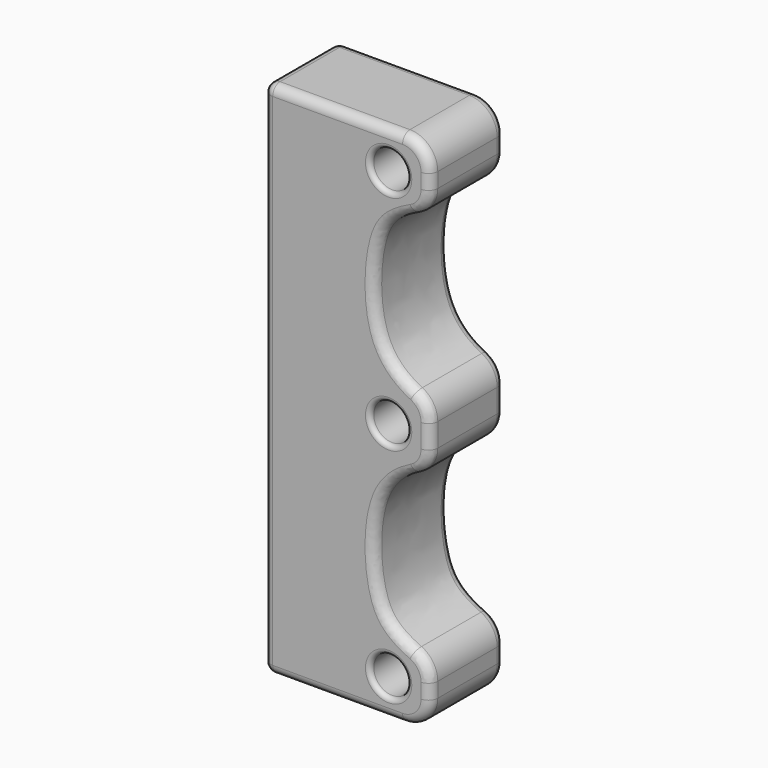
from build123d import *

# Parameters (mm, degrees)
F0_W      = 18
F0_H      = 56
F1_DEPTH  = 10
F2_R      = 2
F3_DEPTH  = 25
F4_R      = 3
F6_DEPTH  = 25
F7_R      = 3
F8_R      = 1
F9_W      = 6.2
F9_H      = 16.2
F10_DEPTH = 2.5
F11_R     = 1
F12_R     = 0.5
F13_W     = 4.2
F13_H     = 14.2
F14_DEPTH = 2.5


with BuildPart() as f1:
    # F0 (on Front) → F1 (new body)
    with BuildSketch(Plane.XZ):
        with Locations((9, 0)):
            Rectangle(F0_W, F0_H)
    extrude(amount=F1_DEPTH)

    # F2 (on face) → F3 (cut)
    with BuildSketch(Plane.XZ.offset(10)):
        with Locations((13.5, 0)):
            Circle(F2_R)
        with Locations((13.5, -24)):
            Circle(F2_R)
        with Locations((13.5, 24)):
            Circle(F2_R)
    extrude(amount=-F3_DEPTH, mode=Mode.SUBTRACT)

    # F4
    f4_edges = [f1.edges().sort_by_distance(p)[0] for p in [
        (18, -5, 28),
        (18, -5, -28),
    ]]
    fillet(f4_edges, radius=F4_R)

    # F5 (on face) → F6 (cut)
    with BuildSketch(Plane.XZ.offset(10)):
        with BuildLine():
            Line((18, 3.2415748574), (18, 21.3836580515))
            add(Edge.make_bspline(
                [(18, 21.3836580515), (14.2494980246, 19.9711695313), (11.9194824097, 17.8494633808), (11.5903775307, 7.2686452657), (14.9617330051, 4.3426546719), (18, 3.2415748574)],
                knots=[0, 0, 0, 0, 0.3209354956, 0.6753904127, 1, 1, 1, 1], degree=3))
        make_face()
        with BuildLine():
            add(Edge.make_bspline(
                [(18, -21.3836580515), (14.2494980246, -19.9711695313), (11.9194824097, -17.8494633808), (11.5903775307, -7.2686452657), (14.9617330051, -4.3426546719), (18, -3.2415748574)],
                knots=[0, 0, 0, 0, 0.3209354956, 0.6753904127, 1, 1, 1, 1], degree=3))
            Line((18, -21.3836580515), (18, -3.2415748574))
        make_face()
    extrude(amount=-F6_DEPTH, mode=Mode.SUBTRACT)

    # F7
    f7_edges = [f1.edges().sort_by_distance(p)[0] for p in [
        (18, -5, 21.383658),
        (18, -5, -21.383658),
        (18, -5, 3.241575),
        (18, -5, -3.241575),
    ]]
    fillet(f7_edges, radius=F7_R)

    # F8
    f8_edges = [f1.edges().sort_by_distance(p)[0] for p in [
        (0, -5, -28),
        (0, -5, 28),
    ]]
    fillet(f8_edges, radius=F8_R)

    # F9 (on face) → F10 (cut)
    with BuildSketch(Plane(origin=(0, 0, 0), x_dir=(0, -1, 0), z_dir=(-1, 0, 0))):
        with Locations((5.1, -17.7)):
            Rectangle(F9_W, F9_H)
        with Locations((5.1, 0)):
            Rectangle(F9_W, F9_H)
        with Locations((5.1, 17.7)):
            Rectangle(F9_W, F9_H)
    extrude(amount=-F10_DEPTH, mode=Mode.SUBTRACT)

    # F11
    f11_edges = [f1.edges().sort_by_distance(p)[0] for p in [
        (8, -10, 28),
        (0, 0, 0),
    ]]
    fillet(f11_edges, radius=F11_R)

    # F12
    f12_edges = [f1.edges().sort_by_distance(p)[0] for p in [
        (11.5, -10, -24),
        (11.5, -10, 0),
        (11.5, -10, 24),
        (11.5, 0, 24),
        (11.5, 0, 0),
        (11.5, 0, -24),
    ]]
    fillet(f12_edges, radius=F12_R)

    # F13 (on face) → F14 (cut, through all)
    with BuildSketch(Plane(origin=(0, 0, 0), x_dir=(0, -1, 0), z_dir=(-1, 0, 0))):
        with Locations((5.1, 17.7)):
            Rectangle(F13_W, F13_H)
        with Locations((5.1, 0)):
            Rectangle(F13_W, F13_H)
        with Locations((5.1, -17.7)):
            Rectangle(F13_W, F13_H)
    extrude(amount=-F14_DEPTH, mode=Mode.SUBTRACT)


solid = f1.part
